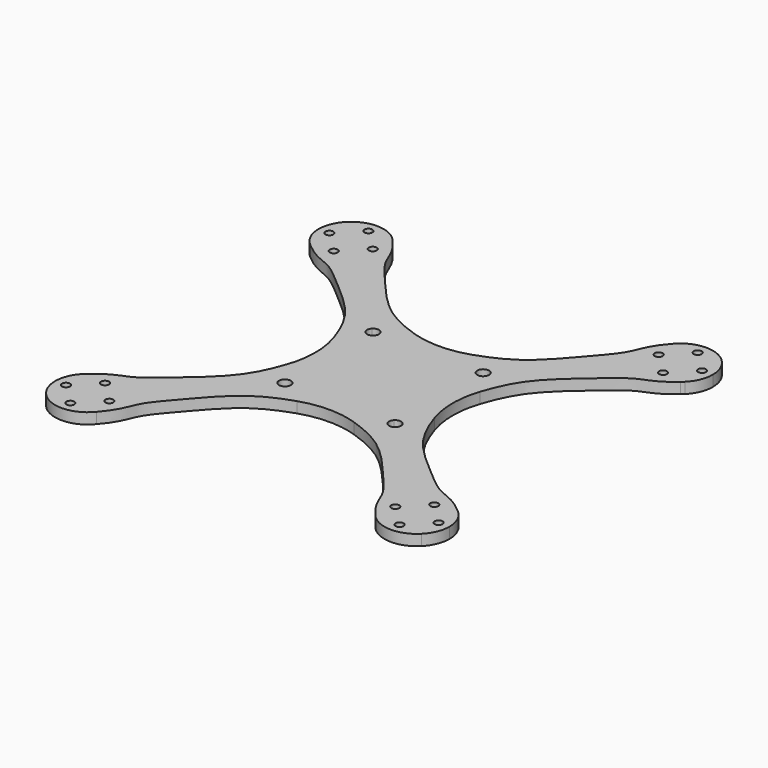
from build123d import *

# Parameters (mm, degrees)
F0_W     = 18
F0_H     = 18
F0_R     = 1.65
F0_R_2   = 1.1
F1_DEPTH = 3
F2_R     = 25


with BuildPart() as f1:
    # F0 (on Top) → F1 (new body)
    with BuildSketch(Plane.XY):
        with BuildLine():
            Line((-52.6768289285, 45.5775), (-54.5768289285, 45.5775))
            ThreePointArc((-54.5768289285, 45.5775), (-53.8976309819, 42.1475942889), (-51.9625504425, 39.2353741146))
            Line((-51.9625504425, 39.2353741146), (-45.5771656135, 45.5771656135))
            Line((-45.5771656135, 45.5771656135), (-45.5775, 45.5775))
            Line((-45.5775, 45.5775), (-50.4768289285, 45.5775))
            ThreePointArc((-50.4768289285, 45.5775), (-51.5768289285, 44.4775), (-52.6768289285, 45.5775))
        make_face()
        with BuildLine():
            ThreePointArc((-51.9411254861, 51.9411254861), (-53.8918355135, 49.0214316908), (-54.5768289285, 45.5775))
            Line((-54.5768289285, 45.5775), (-52.6768289285, 45.5775))
            ThreePointArc((-52.6768289285, 45.5775), (-51.5768289285, 46.6775), (-50.4768289285, 45.5775))
            Line((-50.4768289285, 45.5775), (-45.5775, 45.5775))
            Line((-45.5775, 45.5775), (-51.9411254861, 51.9411254861))
        make_face()
        with BuildLine():
            add(Edge.make_bspline(
                [(-51.9625504425, 39.2353741146), (-51.7221199669, 39.0115138973), (-51.4875786056, 38.7992272656), (-51.2586047637, 38.5977132298)],
                knots=[0, 0, 0, 0, 0.0123704122, 0.0123704122, 0.0123704122, 0.0123704122], degree=3))
            ThreePointArc((-51.9625504425, 39.2353741146), (-51.6189954207, 38.9072508232), (-51.2586047637, 38.5977132298))
        make_face()
        with BuildLine():
            Line((-45.5771656135, 45.5771656135), (-51.9625504425, 39.2353741146))
            add(Edge.make_bspline(
                [(-51.9625504425, 39.2353741146), (-51.7221199669, 39.0115138973), (-51.4875786056, 38.7992272656), (-51.2586047637, 38.5977132298)],
                knots=[0, 0, 0, 0, 0.0123704122, 0.0123704122, 0.0123704122, 0.0123704122], degree=3))
            ThreePointArc((-51.2586047637, 38.5977132298), (-48.5919507393, 37.0975801616), (-45.5768289285, 36.5775))
            Line((-45.5768289285, 36.5775), (-45.5768289285, 38.4775))
            ThreePointArc((-45.5768289285, 38.4775), (-46.6768289285, 39.5775), (-45.5768289285, 40.6775))
            Line((-45.5768289285, 40.6775), (-45.5768289285, 45.5768289285))
            Line((-45.5768289285, 45.5768289285), (-45.5771656135, 45.5771656135))
        make_face()
        with BuildLine():
            ThreePointArc((-45.5768289285, 54.5775), (-49.0211990179, 53.8923249944), (-51.9411254861, 51.9411254861))
            Line((-51.9411254861, 51.9411254861), (-45.5775, 45.5775))
            Line((-45.5775, 45.5775), (-45.5768289285, 45.5775))
            Line((-45.5768289285, 45.5775), (-45.5768289285, 50.4775))
            ThreePointArc((-45.5768289285, 50.4775), (-46.6768289285, 51.5775), (-45.5768289285, 52.6775))
            Line((-45.5768289285, 52.6775), (-45.5768289285, 54.5775))
        make_face()
        with BuildLine():
            ThreePointArc((-45.5768289285, 36.5775), (-48.5919507393, 37.0975801616), (-51.2586047637, 38.5977132298))
            add(Edge.make_bspline(
                [(-51.2586047637, 38.5977132298), (-47.2864605414, 35.1019304507), (-42.7881620708, 34.6046550596), (-35.4637120062, 27.9445069724), (-23.4871683958, 18.2158039913), (-20.1293552586, 8.2505741197), (-18, 0)],
                knots=[0.0123704122, 0.0123704122, 0.0123704122, 0.0123704122, 0.2269672445, 0.4326851633, 0.6947645386, 1, 1, 1, 1], degree=3))
            Line((-18, 0), (-18, 18))
            Line((-18, 18), (-39.2132034424, 39.2132034424))
            ThreePointArc((-39.2132034424, 39.2132034424), (-42.1328972377, 37.262493415), (-45.5768289285, 36.5775))
        make_face()
        with BuildLine():
            ThreePointArc((-39.1911074145, 51.9196258854), (-42.1184429587, 53.8865051441), (-45.5768289285, 54.5775))
            Line((-45.5768289285, 54.5775), (-45.5768289285, 52.6775))
            ThreePointArc((-45.5768289285, 52.6775), (-44.7990114692, 52.3553174593), (-44.4768289285, 51.5775))
            ThreePointArc((-44.4768289285, 51.5775), (-44.7990114692, 50.7996825407), (-45.5768289285, 50.4775))
            Line((-45.5768289285, 50.4775), (-45.5768289285, 45.5775))
            Line((-45.5768289285, 45.5775), (-39.1933790389, 51.9173697694))
            Line((-39.1933790389, 51.9173697694), (-39.1911074145, 51.9196258854))
        make_face()
        with Locations((-9, -9)):
            Rectangle(F0_W, F0_H)
        with Locations((-15.25, -15.25)):
            Circle(F0_R, mode=Mode.SUBTRACT)
        with BuildLine():
            Line((-18, 18), (-18, 0))
            Line((-18, 0), (0, 0))
            Line((0, 0), (-14.083273811, 14.083273811))
            ThreePointArc((-14.083273811, 14.083273811), (-16.416726189, 14.083273811), (-16.416726189, 16.416726189))
            Line((-16.416726189, 16.416726189), (-18, 18))
        make_face()
        with BuildLine():
            Line((-18, -18), (-18, 0))
            add(Edge.make_bspline(
                [(-51.2586047637, -38.5977132298), (-47.2864605414, -35.1019304507), (-42.7881620708, -34.6046550596), (-35.4637120062, -27.9445069724), (-23.4871683958, -18.2158039913), (-20.1293552586, -8.2505741197), (-18, 0)],
                knots=[0.0123704122, 0.0123704122, 0.0123704122, 0.0123704122, 0.2269672445, 0.4326851633, 0.6947645386, 1, 1, 1, 1], degree=3))
            ThreePointArc((-51.2586047637, -38.5977132298), (-41.7126331853, -37.4492780998), (-36.5768289285, -45.5775))
            ThreePointArc((-36.5768289285, -45.5775), (-37.0928905493, -48.5812958616), (-38.5818932792, -51.2406153319))
            add(Edge.make_bspline(
                [(-38.5818932792, -51.2406153319), (-35.1011612566, -47.2795218865), (-34.6014911813, -42.7846826183), (-27.9445069724, -35.4637120062), (-18.2158039913, -23.4871683958), (-8.2505741197, -20.1293552586), (0, -18)],
                knots=[0.0126945809, 0.0126945809, 0.0126945809, 0.0126945809, 0.2269672445, 0.4326851633, 0.6947645386, 1, 1, 1, 1], degree=3))
            Line((0, -18), (-18, -18))
        make_face()
        with BuildLine():
            Line((-39.1933790389, 51.9173697694), (-45.5768289285, 45.5775))
            Line((-45.5768289285, 45.5775), (-40.6768289285, 45.5775))
            ThreePointArc((-40.6768289285, 45.5775), (-39.5768289285, 46.6775), (-38.4768289285, 45.5775))
            Line((-38.4768289285, 45.5775), (-36.5768289285, 45.5775))
            ThreePointArc((-36.5768289285, 45.5775), (-37.0928905493, 48.5812958616), (-38.5818932792, 51.2406153319))
            add(Edge.make_bspline(
                [(-39.1933790389, 51.9173697694), (-38.9790924203, 51.6864328419), (-38.7755026263, 51.4609439038), (-38.5818932792, 51.2406153319)],
                knots=[0.0007760562, 0.0007760562, 0.0007760562, 0.0007760562, 0.0126945809, 0.0126945809, 0.0126945809, 0.0126945809], degree=3))
        make_face()
        with BuildLine():
            ThreePointArc((-38.5818932792, 51.2406153319), (-38.8778916722, 51.5878443859), (-39.1911074145, 51.9196258854))
            Line((-39.1911074145, 51.9196258854), (-39.1933790389, 51.9173697694))
            add(Edge.make_bspline(
                [(-39.1933790389, 51.9173697694), (-38.9790924203, 51.6864328419), (-38.7755026263, 51.4609439038), (-38.5818932792, 51.2406153319)],
                knots=[0.0007760562, 0.0007760562, 0.0007760562, 0.0007760562, 0.0126945809, 0.0126945809, 0.0126945809, 0.0126945809], degree=3))
        make_face()
        with BuildLine():
            ThreePointArc((-36.5768289285, 45.5775), (-37.2620039341, 42.1331299106), (-39.2132034424, 39.2132034424))
            Line((-39.2132034424, 39.2132034424), (-18, 18))
            Line((-18, 18), (0, 18))
            add(Edge.make_bspline(
                [(-38.5818932792, 51.2406153319), (-35.1011612566, 47.2795218865), (-34.6014911813, 42.7846826183), (-27.9445069724, 35.4637120062), (-18.2158039913, 23.4871683958), (-8.2505741197, 20.1293552586), (0, 18)],
                knots=[0.0126945809, 0.0126945809, 0.0126945809, 0.0126945809, 0.2269672445, 0.4326851633, 0.6947645386, 1, 1, 1, 1], degree=3))
            ThreePointArc((-38.5818932792, 51.2406153319), (-37.0928905493, 48.5812958616), (-36.5768289285, 45.5775))
        make_face()
        with BuildLine():
            Line((0, 18), (-18, 18))
            Line((-18, 18), (-16.416726189, 16.416726189))
            ThreePointArc((-16.416726189, 16.416726189), (-14.6185723366, 16.7744012286), (-13.6, 15.25))
            ThreePointArc((-13.6, 15.25), (-13.7255987714, 14.6185723366), (-14.083273811, 14.083273811))
            Line((-14.083273811, 14.083273811), (0, 0))
            Line((0, 0), (0, 18))
        make_face()
        with BuildLine():
            Line((14.083273811, -14.083273811), (0, 0))
            Line((0, 0), (0, -18))
            Line((0, -18), (18, -18))
            Line((18, -18), (16.416726189, -16.416726189))
            ThreePointArc((16.416726189, -16.416726189), (14.083273811, -16.416726189), (14.083273811, -14.083273811))
        make_face()
        with Locations((9, 9)):
            Rectangle(F0_W, F0_H)
        with Locations((15.25, 15.25)):
            Circle(F0_R, mode=Mode.SUBTRACT)
        with BuildLine():
            Line((18, 0), (0, 0))
            Line((0, 0), (14.083273811, -14.083273811))
            ThreePointArc((14.083273811, -14.083273811), (15.8814276634, -13.7255987714), (16.9, -15.25))
            ThreePointArc((16.9, -15.25), (16.7744012286, -15.8814276634), (16.416726189, -16.416726189))
            Line((16.416726189, -16.416726189), (18, -18))
            Line((18, -18), (18, 0))
        make_face()
        with BuildLine():
            ThreePointArc((-36.5768289285, -45.5775), (-41.7126331853, -37.4492780998), (-51.2586047637, -38.5977132298))
            add(Edge.make_bspline(
                [(-51.9625504425, -39.2353741146), (-51.7221199669, -39.0115138973), (-51.4875786056, -38.7992272656), (-51.2586047637, -38.5977132298)],
                knots=[0, 0, 0, 0, 0.0123704122, 0.0123704122, 0.0123704122, 0.0123704122], degree=3))
            ThreePointArc((-51.9625504425, -39.2353741146), (-51.5871733144, -52.2764372562), (-38.5818932792, -51.2406153319))
            ThreePointArc((-38.5818932792, -51.2406153319), (-37.0928905493, -48.5812958616), (-36.5768289285, -45.5775))
        make_face()
        with Locations((-45.5768289285, -51.5775)):
            Circle(F0_R_2, mode=Mode.SUBTRACT)
        with Locations((-51.5768289285, -45.5775)):
            Circle(F0_R_2, mode=Mode.SUBTRACT)
        with Locations((-39.5768289285, -45.5775)):
            Circle(F0_R_2, mode=Mode.SUBTRACT)
        with Locations((-45.5768289285, -39.5775)):
            Circle(F0_R_2, mode=Mode.SUBTRACT)
        with BuildLine():
            add(Edge.make_bspline(
                [(-51.9625504425, -39.2353741146), (-51.7221199669, -39.0115138973), (-51.4875786056, -38.7992272656), (-51.2586047637, -38.5977132298)],
                knots=[0, 0, 0, 0, 0.0123704122, 0.0123704122, 0.0123704122, 0.0123704122], degree=3))
            ThreePointArc((-51.2586047637, -38.5977132298), (-51.6189954207, -38.9072508232), (-51.9625504425, -39.2353741146))
        make_face()
        with BuildLine():
            add(Edge.make_bspline(
                [(38.5818932792, 51.2406153319), (35.1011612566, 47.2795218865), (34.6014911813, 42.7846826183), (27.9445069724, 35.4637120062), (18.2158039913, 23.4871683958), (8.2505741197, 20.1293552586), (0, 18)],
                knots=[0.0126945809, 0.0126945809, 0.0126945809, 0.0126945809, 0.2269672445, 0.4326851633, 0.6947645386, 1, 1, 1, 1], degree=3))
            Line((0, 18), (18, 18))
            Line((18, 18), (18, 0))
            add(Edge.make_bspline(
                [(51.2586047637, 38.5977132298), (47.2864605414, 35.1019304507), (42.7881620708, 34.6046550596), (35.4637120062, 27.9445069724), (23.4871683958, 18.2158039913), (20.1293552586, 8.2505741197), (18, 0)],
                knots=[0.0123704122, 0.0123704122, 0.0123704122, 0.0123704122, 0.2269672445, 0.4326851633, 0.6947645386, 1, 1, 1, 1], degree=3))
            ThreePointArc((51.2586047637, 38.5977132298), (39.2213713867, 39.2050468276), (38.5818932792, 51.2406153319))
        make_face()
        with BuildLine():
            Line((18, -18), (0, -18))
            add(Edge.make_bspline(
                [(38.5818932792, -51.2406153319), (35.1011612566, -47.2795218865), (34.6014911813, -42.7846826183), (27.9445069724, -35.4637120062), (18.2158039913, -23.4871683958), (8.2505741197, -20.1293552586), (0, -18)],
                knots=[0.0126945809, 0.0126945809, 0.0126945809, 0.0126945809, 0.2269672445, 0.4326851633, 0.6947645386, 1, 1, 1, 1], degree=3))
            ThreePointArc((38.5818932792, -51.2406153319), (36.5892014278, -45.1057459239), (39.2132034424, -39.2132034424))
            Line((39.2132034424, -39.2132034424), (18, -18))
        make_face()
        with BuildLine():
            add(Edge.make_bspline(
                [(51.2586047637, -38.5977132298), (47.2864605414, -35.1019304507), (42.7881620708, -34.6046550596), (35.4637120062, -27.9445069724), (23.4871683958, -18.2158039913), (20.1293552586, -8.2505741197), (18, 0)],
                knots=[0.0123704122, 0.0123704122, 0.0123704122, 0.0123704122, 0.2269672445, 0.4326851633, 0.6947645386, 1, 1, 1, 1], degree=3))
            Line((18, 0), (18, -18))
            Line((18, -18), (39.2132034424, -39.2132034424))
            ThreePointArc((39.2132034424, -39.2132034424), (45.1175503779, -36.5892263497), (51.2586047637, -38.5977132298))
        make_face()
        with BuildLine():
            ThreePointArc((54.5768289285, 45.5775), (48.5806247901, 54.0614383792), (38.5818932792, 51.2406153319))
            ThreePointArc((38.5818932792, 51.2406153319), (39.2213713867, 39.2050468276), (51.2586047637, 38.5977132298))
            add(Edge.make_bspline(
                [(51.9625504425, 39.2353741146), (51.7221199669, 39.0115138973), (51.4875786056, 38.7992272656), (51.2586047637, 38.5977132298)],
                knots=[0, 0, 0, 0, 0.0123704122, 0.0123704122, 0.0123704122, 0.0123704122], degree=3))
            ThreePointArc((51.9625504425, 39.2353741146), (53.8976309819, 42.1475942889), (54.5768289285, 45.5775))
        make_face()
        with Locations((45.5768289285, 39.5775)):
            Circle(F0_R_2, mode=Mode.SUBTRACT)
        with Locations((39.5768289285, 45.5775)):
            Circle(F0_R_2, mode=Mode.SUBTRACT)
        with Locations((51.5768289285, 45.5775)):
            Circle(F0_R_2, mode=Mode.SUBTRACT)
        with Locations((45.5768289285, 51.5775)):
            Circle(F0_R_2, mode=Mode.SUBTRACT)
        with BuildLine():
            ThreePointArc((39.2132034424, -39.2132034424), (36.5892014278, -45.1057459239), (38.5818932792, -51.2406153319))
            ThreePointArc((38.5818932792, -51.2406153319), (45.1055487199, -54.5651523612), (51.9411254861, -51.9411254861))
            Line((51.9411254861, -51.9411254861), (39.2132034424, -39.2132034424))
        make_face()
        with Locations((39.5768289285, -45.5775)):
            Circle(F0_R_2, mode=Mode.SUBTRACT)
        with Locations((45.5768289285, -51.5775)):
            Circle(F0_R_2, mode=Mode.SUBTRACT)
        with BuildLine():
            add(Edge.make_bspline(
                [(51.9625504425, 39.2353741146), (51.7221199669, 39.0115138973), (51.4875786056, 38.7992272656), (51.2586047637, 38.5977132298)],
                knots=[0, 0, 0, 0, 0.0123704122, 0.0123704122, 0.0123704122, 0.0123704122], degree=3))
            ThreePointArc((51.2586047637, 38.5977132298), (51.6189954207, 38.9072508232), (51.9625504425, 39.2353741146))
        make_face()
        with BuildLine():
            ThreePointArc((51.9625504425, -39.2353741146), (51.6189954207, -38.9072508232), (51.2586047637, -38.5977132298))
            add(Edge.make_bspline(
                [(51.9625504425, -39.2353741146), (51.7221199669, -39.0115138973), (51.4875786056, -38.7992272656), (51.2586047637, -38.5977132298)],
                knots=[0, 0, 0, 0, 0.0123704122, 0.0123704122, 0.0123704122, 0.0123704122], degree=3))
        make_face()
        with BuildLine():
            add(Edge.make_bspline(
                [(51.9625504425, -39.2353741146), (51.7221199669, -39.0115138973), (51.4875786056, -38.7992272656), (51.2586047637, -38.5977132298)],
                knots=[0, 0, 0, 0, 0.0123704122, 0.0123704122, 0.0123704122, 0.0123704122], degree=3))
            ThreePointArc((51.2586047637, -38.5977132298), (45.1175503779, -36.5892263497), (39.2132034424, -39.2132034424))
            Line((39.2132034424, -39.2132034424), (51.9411254861, -51.9411254861))
            ThreePointArc((51.9411254861, -51.9411254861), (53.8918355135, -49.0214316908), (54.5768289285, -45.5775))
            ThreePointArc((54.5768289285, -45.5775), (53.8976309819, -42.1475942889), (51.9625504425, -39.2353741146))
        make_face()
        with Locations((51.5768289285, -45.5775)):
            Circle(F0_R_2, mode=Mode.SUBTRACT)
        with Locations((45.5768289285, -39.5775)):
            Circle(F0_R_2, mode=Mode.SUBTRACT)
        with BuildLine():
            Line((-45.5768289285, 45.5775), (-45.5768289285, 45.5768289285))
            Line((-45.5768289285, 45.5768289285), (-39.2132034424, 39.2132034424))
            ThreePointArc((-39.2132034424, 39.2132034424), (-37.2620039341, 42.1331299106), (-36.5768289285, 45.5775))
            Line((-36.5768289285, 45.5775), (-38.4768289285, 45.5775))
            ThreePointArc((-38.4768289285, 45.5775), (-39.5768289285, 44.4775), (-40.6768289285, 45.5775))
            Line((-40.6768289285, 45.5775), (-45.5768289285, 45.5775))
        make_face()
        with BuildLine():
            Line((-45.5768289285, 38.4775), (-45.5768289285, 36.5775))
            ThreePointArc((-45.5768289285, 36.5775), (-42.1328972377, 37.262493415), (-39.2132034424, 39.2132034424))
            Line((-39.2132034424, 39.2132034424), (-45.5768289285, 45.5768289285))
            Line((-45.5768289285, 45.5768289285), (-45.5768289285, 40.6775))
            ThreePointArc((-45.5768289285, 40.6775), (-44.7990114692, 40.3553174593), (-44.4768289285, 39.5775))
            ThreePointArc((-44.4768289285, 39.5775), (-44.7990114692, 38.7996825407), (-45.5768289285, 38.4775))
        make_face()
        with BuildLine():
            ThreePointArc((-45.5768289285, 54.5775), (-49.0211990179, 53.8923249944), (-51.9411254861, 51.9411254861))
            Line((-51.9411254861, 51.9411254861), (-45.5775, 45.5775))
            Line((-45.5775, 45.5775), (-45.5768289285, 45.5775))
            Line((-45.5768289285, 45.5775), (-45.5768289285, 50.4775))
            ThreePointArc((-45.5768289285, 50.4775), (-46.6768289285, 51.5775), (-45.5768289285, 52.6775))
            Line((-45.5768289285, 52.6775), (-45.5768289285, 54.5775))
        make_face()
        with BuildLine():
            ThreePointArc((-51.9411254861, 51.9411254861), (-53.8918355135, 49.0214316908), (-54.5768289285, 45.5775))
            Line((-54.5768289285, 45.5775), (-52.6768289285, 45.5775))
            ThreePointArc((-52.6768289285, 45.5775), (-51.5768289285, 46.6775), (-50.4768289285, 45.5775))
            Line((-50.4768289285, 45.5775), (-45.5775, 45.5775))
            Line((-45.5775, 45.5775), (-51.9411254861, 51.9411254861))
        make_face()
    extrude(amount=F1_DEPTH)

    # F2
    f2_edges = [f1.edges().sort_by_distance(p)[0] for p in [
        (0, -18, 1.5),
        (18, 0, 1.5),
        (0, 18, 1.5),
        (-18, 0, 1.5),
    ]]
    fillet(f2_edges, radius=F2_R)


solid = f1.part
